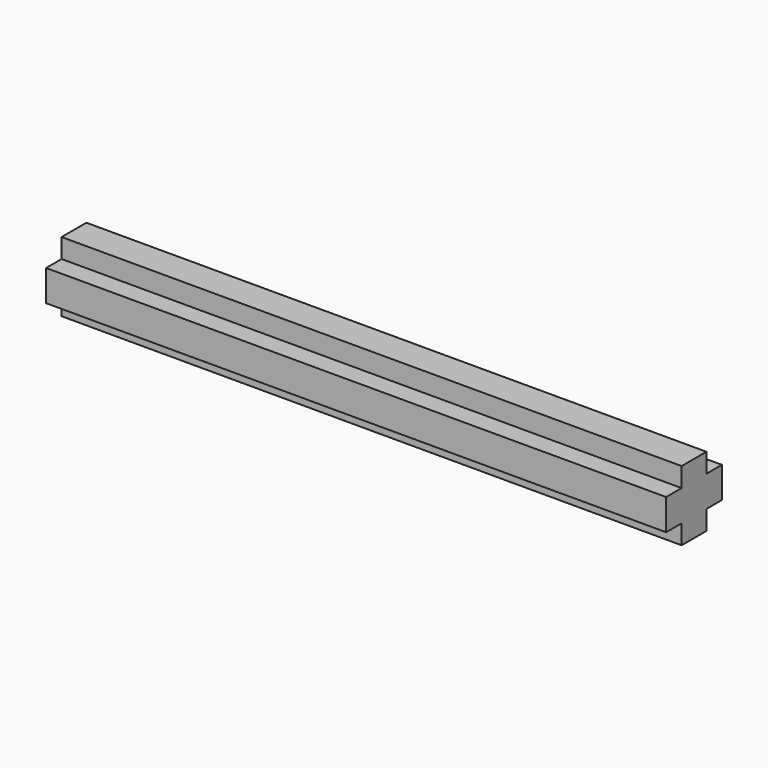
from build123d import *


with BuildPart() as f3:
    # F3: sweep along a path in F0
    with BuildLine(Plane.XZ) as f3_path:
        Line((-20, 0), (20, 0))
    # F2 (on face) → F3 (sweep)
    with BuildSketch(Plane.YZ.offset(-20)):
        Polygon((-1, -1), (-1, -2.25), (1, -2.25), (1, -1), (2.25, -1), (2.25, 1), (1, 1), (1, 2.25), (-1, 2.25), (-1, 1), (-2.25, 1), (-2.25, -1), align=None)
    sweep(path=f3_path.line)


solid = f3.part
